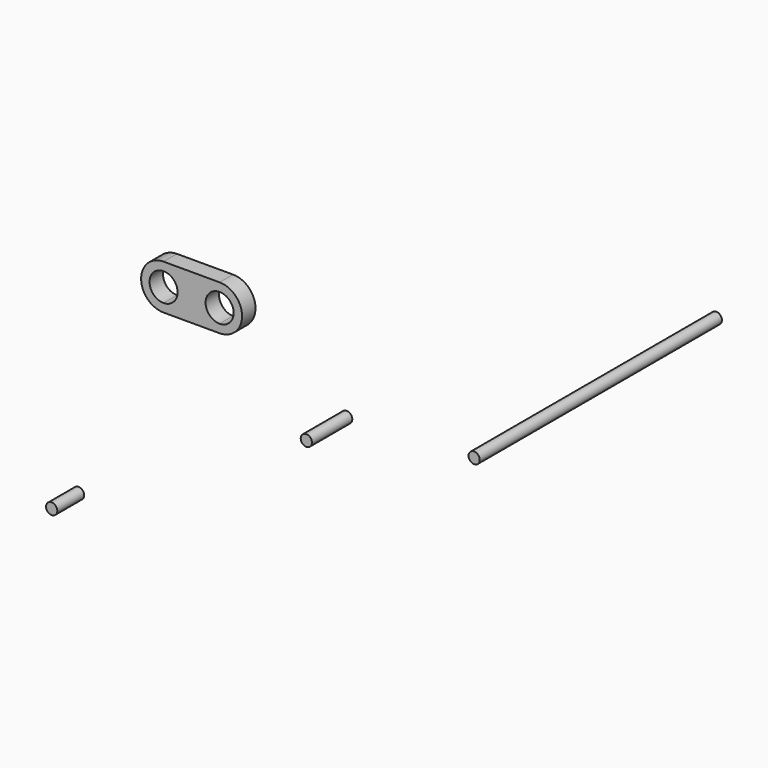
from build123d import *

# Parameters (mm, degrees)
F1_DEPTH = 1.5
F2_R     = 1
F3_DEPTH = 4.5
F4_R     = 1
F5_DEPTH = 27
F6_R     = 1
F7_DEPTH = 3


with BuildPart() as f1:
    # F0 (on Front) → F1 (new body, symmetric)
    with BuildSketch(Plane.XZ):
        with BuildLine():
            Line((-27.870757, 11.30302), (-27.870757, 9.80302))
            Line((-27.870757, 9.80302), (-17.870757, 9.80302))
            Line((-17.870757, 9.80302), (-17.870757, 11.30302))
            ThreePointArc((-17.870757, 11.30302), (-20.370757, 13.80302), (-17.870757, 16.30302))
            Line((-17.870757, 16.30302), (-17.870757, 17.80302))
            Line((-17.870757, 17.80302), (-27.870757, 17.80302))
            Line((-27.870757, 17.80302), (-27.870757, 16.30302))
            ThreePointArc((-27.870757, 16.30302), (-26.10299, 15.570787), (-25.370757, 13.80302))
            ThreePointArc((-25.370757, 13.80302), (-26.10299, 12.035253), (-27.870757, 11.30302))
        make_face()
        with BuildLine():
            Line((-17.870757, 11.30302), (-17.870757, 9.80302))
            ThreePointArc((-17.870757, 9.80302), (-13.870757, 13.80302), (-17.870757, 17.80302))
            Line((-17.870757, 17.80302), (-17.870757, 16.30302))
            ThreePointArc((-17.870757, 16.30302), (-16.10299, 15.570787), (-15.370757, 13.80302))
            ThreePointArc((-15.370757, 13.80302), (-16.10299, 12.035253), (-17.870757, 11.30302))
        make_face()
        with BuildLine():
            ThreePointArc((-27.870757, 17.80302), (-31.870757, 13.80302), (-27.870757, 9.80302))
            Line((-27.870757, 9.80302), (-27.870757, 11.30302))
            ThreePointArc((-27.870757, 11.30302), (-30.370757, 13.80302), (-27.870757, 16.30302))
            Line((-27.870757, 16.30302), (-27.870757, 17.80302))
        make_face()
    extrude(amount=F1_DEPTH, both=True)


with BuildPart() as f3:
    # F2 (on Front) → F3 (new body, symmetric)
    with BuildSketch(Plane.XZ):
        Circle(F2_R)
    extrude(amount=F3_DEPTH, both=True)


with BuildPart() as f5:
    # F4 (on Front) → F5 (new body, symmetric)
    with BuildSketch(Plane.XZ):
        with Locations((47.935918, 22.004351)):
            Circle(F4_R)
    extrude(amount=F5_DEPTH, both=True)


with BuildPart() as f7:
    # F6 (on Front) → F7 (new body, symmetric)
    with BuildSketch(Plane.XZ):
        with Locations((-46.628293, -26.496712)):
            Circle(F6_R)
    extrude(amount=F7_DEPTH, both=True)


solid = Compound([f1.part, f3.part, f5.part, f7.part])
